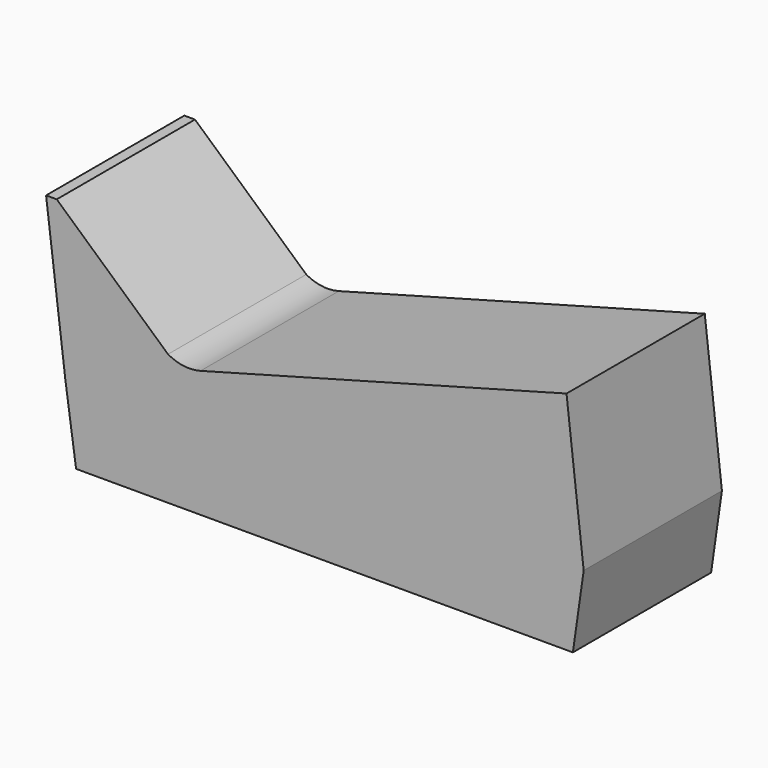
from build123d import *

# Parameters (mm, degrees)
F1_DEPTH = 50.8
F3_DEPTH = 50.8


with BuildPart() as f1:
    # F0 (on Front) → F1 (new body)
    with BuildSketch(Plane.XZ):
        Polygon((82.680969, -6.026246), (-69.719031, -6.026246), (-66.544031, -28.251246), (6.480969, -28.251246), (79.505969, -28.251246), align=None)
    extrude(amount=F1_DEPTH)

    # F2 (on face) → F3 (join)
    with BuildSketch(Plane.XZ.offset(50.8)):
        with BuildLine():
            Line((-69.719031, -6.026246), (82.680969, -6.026246))
            Line((82.680969, -6.026246), (77.633824, 38.136282))
            Line((77.633824, 38.136282), (-29.958417, 9.01486))
            ThreePointArc((-29.958417, 9.01486), (-34.852735, 8.671956), (-39.5118, 10.209822))
            Line((-39.5118, 10.209822), (-72.226651, 39.664176))
            Line((-72.226651, 39.664176), (-75.361437, 39.664176))
            Line((-75.361437, 39.664176), (-69.719031, -6.026246))
        make_face()
    extrude(amount=-F3_DEPTH)


solid = f1.part
